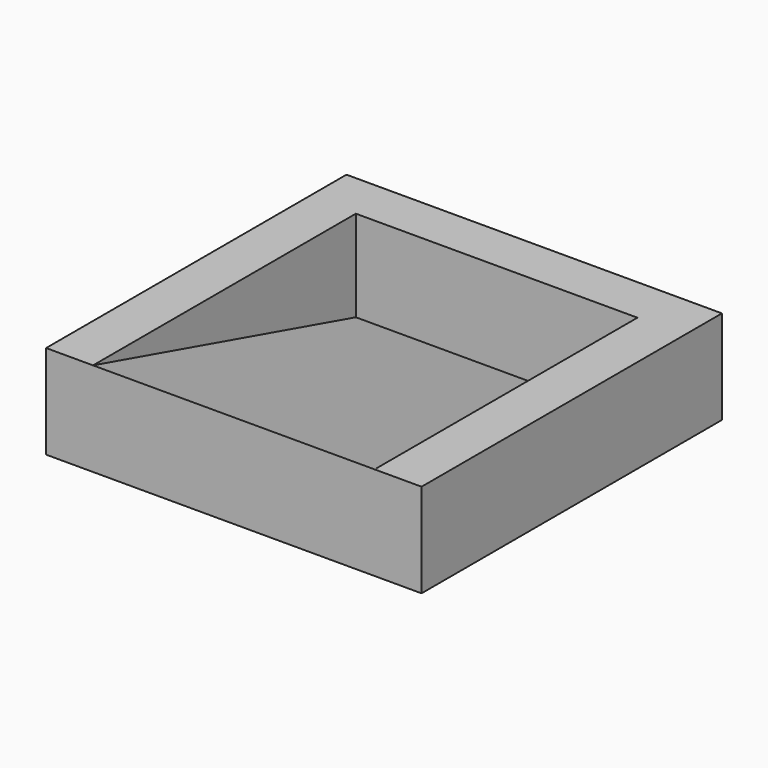
from build123d import *

# Parameters (mm, degrees)
F0_W     = 50.8
F0_H     = 50.8
F1_DEPTH = 12.7
F2_W     = 38.1
F2_H     = 44.45
F3_DEPTH = 25.4
F5_DEPTH = 47.752


with BuildPart() as f1:
    # F0 (on Top) → F1 (new body)
    with BuildSketch(Plane.XY):
        Rectangle(F0_W, F0_H)
    extrude(amount=F1_DEPTH)

    # F2 (on face) → F3 (cut)
    with BuildSketch(Plane.XY.offset(12.7)):
        with Locations((0, -3.175)):
            Rectangle(F2_W, F2_H)
    extrude(amount=-F3_DEPTH, mode=Mode.SUBTRACT)

    # F4 (on face) → F5 (join)
    with BuildSketch(Plane.YZ.offset(25.4)):
        Polygon((20.342838, 0), (-25.4, 12.7), (-25.4, 0), align=None)
    extrude(amount=-F5_DEPTH)


solid = f1.part
